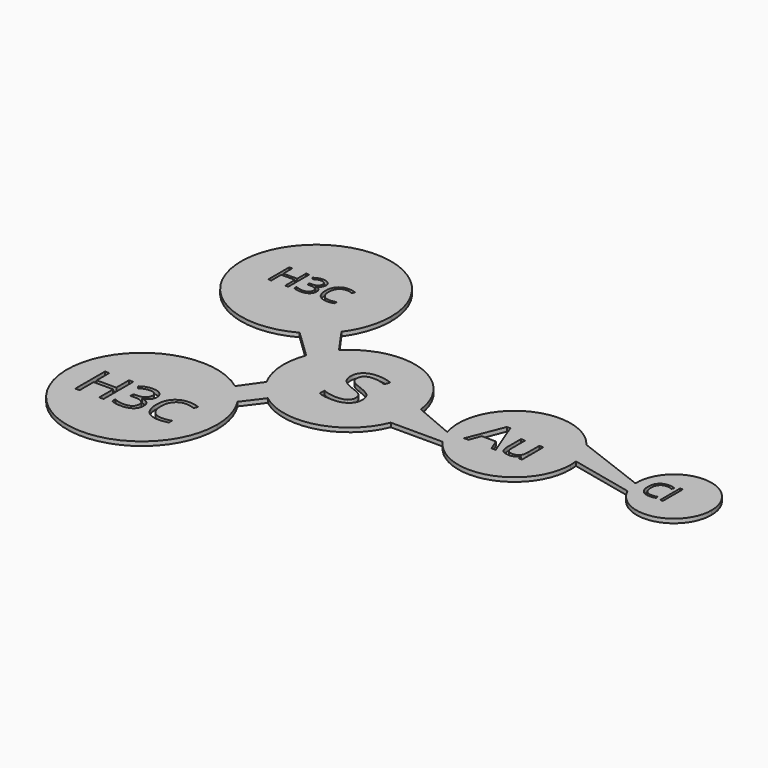
from build123d import *

# Parameters (mm, degrees)
F0_W     = 0.3598875931
F0_H     = 3.3721259448
F1_DEPTH = 0.5588


with BuildPart() as f1:
    # F0 (on Top) → F1 (new body)
    with BuildSketch(Plane.XY):
        with BuildLine():
            ThreePointArc((-51.4902720419, 39.2648222335), (-50.0459202529, 42.0980542652), (-49.5482157334, 45.239016864))
            ThreePointArc((-49.5482157334, 45.239016864), (-68.4527314703, 50.411931374), (-54.8157441839, 36.3345616793))
            ThreePointArc((-54.8157441839, 36.3345616793), (-52.9912704696, 37.6161403516), (-51.4902720419, 39.2648222335))
        make_face()
        Polygon((-62.332591911, 47.3509664274), (-62.332591911, 43.7928512692), (-62.7461089057, 43.7928512692), (-62.7461089057, 45.4671667847), (-64.6205635316, 45.4671667847), (-64.6205635316, 43.7928512692), (-65.0340805264, 43.7928512692), (-65.0340805264, 47.3509664274), (-64.6205635316, 47.3509664274), (-64.6205635316, 45.8370737009), (-62.7461089057, 45.8370737009), (-62.7461089057, 47.3509664274), align=None, mode=Mode.SUBTRACT)
        with BuildLine():
            add(Edge.make_bspline(
                [(-59.6848371424, 47.1644554665), (-59.3974778749, 46.9273256644), (-59.3974778749, 46.5138086697)],
                knots=[0, 0, 0, 1, 1, 1], degree=2))
            add(Edge.make_bspline(
                [(-59.3974778749, 46.5138086697), (-59.3974778749, 46.1727155554), (-59.5886613442, 45.9562226655)],
                knots=[0, 0, 0, 1, 1, 1], degree=2))
            add(Edge.make_bspline(
                [(-59.5886613442, 45.9562226655), (-59.7798448135, 45.7397297756), (-60.1302829447, 45.6665271437)],
                knots=[0, 0, 0, 1, 1, 1], degree=2))
            Line((-60.1302829447, 45.6665271437), (-60.1302829447, 45.6470583587))
            add(Edge.make_bspline(
                [(-60.1302829447, 45.6470583587), (-59.7019696733, 45.5941032633), (-59.4952111759, 45.3748847435)],
                knots=[0, 0, 0, 1, 1, 1], degree=2))
            add(Edge.make_bspline(
                [(-59.4952111759, 45.3748847435), (-59.2884526785, 45.1556662237), (-59.2884526785, 44.8005555841)],
                knots=[0, 0, 0, 1, 1, 1], degree=2))
            add(Edge.make_bspline(
                [(-59.2884526785, 44.8005555841), (-59.2884526785, 44.2920309183), (-59.6412270639, 44.0179104246)],
                knots=[0, 0, 0, 1, 1, 1], degree=2))
            add(Edge.make_bspline(
                [(-59.6412270639, 44.0179104246), (-59.9940014492, 43.7437899309), (-60.6434801189, 43.7437899309)],
                knots=[0, 0, 0, 1, 1, 1], degree=2))
            add(Edge.make_bspline(
                [(-60.6434801189, 43.7437899309), (-60.926166878, 43.7437899309), (-61.1609604259, 43.786621258)],
                knots=[0, 0, 0, 1, 1, 1], degree=2))
            add(Edge.make_bspline(
                [(-61.1609604259, 43.786621258), (-61.3957539738, 43.8294525852), (-61.6169193721, 43.9361415273)],
                knots=[0, 0, 0, 1, 1, 1], degree=2))
            Line((-61.6169193721, 43.9361415273), (-61.6169193721, 44.3208447202))
            add(Edge.make_bspline(
                [(-61.6169193721, 44.3208447202), (-61.3856302055, 44.206368264), (-61.1239697343, 44.1467937817)],
                knots=[0, 0, 0, 1, 1, 1], degree=2))
            add(Edge.make_bspline(
                [(-61.1239697343, 44.1467937817), (-60.862309263, 44.0872192994), (-60.6286838423, 44.0872192994)],
                knots=[0, 0, 0, 1, 1, 1], degree=2))
            add(Edge.make_bspline(
                [(-60.6286838423, 44.0872192994), (-59.7066421817, 44.0872192994), (-59.7066421817, 44.8099006009)],
                knots=[0, 0, 0, 1, 1, 1], degree=2))
            add(Edge.make_bspline(
                [(-59.7066421817, 44.8099006009), (-59.7066421817, 45.4578217678), (-60.7236915134, 45.4578217678)],
                knots=[0, 0, 0, 1, 1, 1], degree=2))
            Line((-60.7236915134, 45.4578217678), (-61.0741296445, 45.4578217678))
            Line((-61.0741296445, 45.4578217678), (-61.0741296445, 45.8051448934))
            Line((-61.0741296445, 45.8051448934), (-60.719019005, 45.8051448934))
            add(Edge.make_bspline(
                [(-60.719019005, 45.8051448934), (-60.303165756, 45.8051448934), (-60.0598059427, 45.9889302244)],
                knots=[0, 0, 0, 1, 1, 1], degree=2))
            add(Edge.make_bspline(
                [(-60.0598059427, 45.9889302244), (-59.8164461294, 46.1727155554), (-59.8164461294, 46.499012393)],
                knots=[0, 0, 0, 1, 1, 1], degree=2))
            add(Edge.make_bspline(
                [(-59.8164461294, 46.499012393), (-59.8164461294, 46.7591153615), (-59.9951695763, 46.9078568793)],
                knots=[0, 0, 0, 1, 1, 1], degree=2))
            add(Edge.make_bspline(
                [(-59.9951695763, 46.9078568793), (-60.1738930232, 47.0565983972), (-60.4807210758, 47.0565983972)],
                knots=[0, 0, 0, 1, 1, 1], degree=2))
            add(Edge.make_bspline(
                [(-60.4807210758, 47.0565983972), (-60.7143464966, 47.0565983972), (-60.9211049939, 46.9931301579)],
                knots=[0, 0, 0, 1, 1, 1], degree=2))
            add(Edge.make_bspline(
                [(-60.9211049939, 46.9931301579), (-61.1278634913, 46.9296619186), (-61.3934177196, 46.7591153615)],
                knots=[0, 0, 0, 1, 1, 1], degree=2))
            Line((-61.3934177196, 46.7591153615), (-61.597450587, 47.0316783523))
            add(Edge.make_bspline(
                [(-61.597450587, 47.0316783523), (-61.3786214429, 47.2045611637), (-61.0928196782, 47.3030732161)],
                knots=[0, 0, 0, 1, 1, 1], degree=2))
            add(Edge.make_bspline(
                [(-61.0928196782, 47.3030732161), (-60.8070179135, 47.4015852685), (-60.4900660926, 47.4015852685)],
                knots=[0, 0, 0, 1, 1, 1], degree=2))
            add(Edge.make_bspline(
                [(-60.4900660926, 47.4015852685), (-59.9721964099, 47.4015852685), (-59.6848371424, 47.1644554665)],
                knots=[0, 0, 0, 1, 1, 1], degree=2))
        make_face(mode=Mode.SUBTRACT)
        with BuildLine():
            add(Edge.make_bspline(
                [(-56.1757833226, 46.8424417615), (-56.5799553005, 47.0316783523), (-56.9841272785, 47.0316783523)],
                knots=[0, 0, 0, 1, 1, 1], degree=2))
            add(Edge.make_bspline(
                [(-56.9841272785, 47.0316783523), (-57.5705270846, 47.0316783523), (-57.9100626961, 46.641134524)],
                knots=[0, 0, 0, 1, 1, 1], degree=2))
            add(Edge.make_bspline(
                [(-57.9100626961, 46.641134524), (-58.2495983076, 46.2505906956), (-58.2495983076, 45.5715194726)],
                knots=[0, 0, 0, 1, 1, 1], degree=2))
            add(Edge.make_bspline(
                [(-58.2495983076, 45.5715194726), (-58.2495983076, 44.8737582159), (-57.9221333428, 44.4925594044)],
                knots=[0, 0, 0, 1, 1, 1], degree=2))
            add(Edge.make_bspline(
                [(-57.9221333428, 44.4925594044), (-57.594668378, 44.1113605929), (-56.9887997869, 44.1113605929)],
                knots=[0, 0, 0, 1, 1, 1], degree=2))
            add(Edge.make_bspline(
                [(-56.9887997869, 44.1113605929), (-56.6165566165, 44.1113605929), (-56.1391820067, 44.2453058341)],
                knots=[0, 0, 0, 1, 1, 1], degree=2))
            Line((-56.1391820067, 44.2453058341), (-56.1391820067, 43.8831864319))
            add(Edge.make_bspline(
                [(-56.1391820067, 43.8831864319), (-56.5090889229, 43.7437899309), (-57.0518786505, 43.7437899309)],
                knots=[0, 0, 0, 1, 1, 1], degree=2))
            add(Edge.make_bspline(
                [(-57.0518786505, 43.7437899309), (-57.8376388156, 43.7437899309), (-58.2647839599, 44.2211645406)],
                knots=[0, 0, 0, 1, 1, 1], degree=2))
            add(Edge.make_bspline(
                [(-58.2647839599, 44.2211645406), (-58.6919291042, 44.6985391504), (-58.6919291042, 45.5769707324)],
                knots=[0, 0, 0, 1, 1, 1], degree=2))
            add(Edge.make_bspline(
                [(-58.6919291042, 45.5769707324), (-58.6919291042, 46.1267692226), (-58.4863387339, 46.5402862174)],
                knots=[0, 0, 0, 1, 1, 1], degree=2))
            add(Edge.make_bspline(
                [(-58.4863387339, 46.5402862174), (-58.2807483637, 46.9538032121), (-57.8925407895, 47.1776942403)],
                knots=[0, 0, 0, 1, 1, 1], degree=2))
            add(Edge.make_bspline(
                [(-57.8925407895, 47.1776942403), (-57.5043332153, 47.4015852685), (-56.9786760186, 47.4015852685)],
                knots=[0, 0, 0, 1, 1, 1], degree=2))
            add(Edge.make_bspline(
                [(-56.9786760186, 47.4015852685), (-56.4195325116, 47.4015852685), (-56.0005642571, 47.1975524011)],
                knots=[0, 0, 0, 1, 1, 1], degree=2))
            Line((-56.0005642571, 47.1975524011), (-56.1757833226, 46.8424417615))
        make_face(mode=Mode.SUBTRACT)
        with BuildLine():
            ThreePointArc((-49.0565616192, 35.7943265999), (-50.1969142027, 34.3488179861), (-51.0157692152, 32.699765035))
            ThreePointArc((-51.0157692152, 32.699765035), (-51.5568674491, 28.9610345767), (-50.4999800202, 25.3342065271))
            ThreePointArc((-50.4999800202, 25.3342065271), (-49.4339676481, 23.7857016052), (-48.0667424935, 22.4953740317))
            ThreePointArc((-48.0667424935, 22.4953740317), (-40.3037341694, 20.9946022527), (-34.4045627249, 26.2592380844))
            ThreePointArc((-34.4045627249, 26.2592380844), (-33.923490882, 27.8904539288), (-33.7611616962, 29.5833639928))
            ThreePointArc((-33.7611616962, 29.5833639928), (-33.7763834268, 30.1039223603), (-33.8219966021, 30.6227018446))
            ThreePointArc((-33.8219966021, 30.6227018446), (-39.8061846324, 38.0192816667), (-49.0565616192, 35.7943265999))
        make_face()
        with BuildLine():
            add(Edge.make_bspline(
                [(-40.4271662895, 29.6509392841), (-40.008062618, 29.194581953), (-40.008062618, 28.4681355891)],
                knots=[0, 0, 0, 1, 1, 1], degree=2))
            add(Edge.make_bspline(
                [(-40.008062618, 28.4681355891), (-40.008062618, 27.5321373895), (-40.6871657894, 27.0074816823)],
                knots=[0, 0, 0, 1, 1, 1], degree=2))
            add(Edge.make_bspline(
                [(-40.6871657894, 27.0074816823), (-41.3662689607, 26.4828259751), (-42.5304458258, 26.4828259751)],
                knots=[0, 0, 0, 1, 1, 1], degree=2))
            add(Edge.make_bspline(
                [(-42.5304458258, 26.4828259751), (-43.7908613118, 26.4828259751), (-44.4707406011, 26.8087954973)],
                knots=[0, 0, 0, 1, 1, 1], degree=2))
            Line((-44.4707406011, 26.8087954973), (-44.4707406011, 27.6035402373))
            add(Edge.make_bspline(
                [(-44.4707406011, 27.6035402373), (-44.0330100998, 27.4203764105), (-43.5192200433, 27.3132721389)],
                knots=[0, 0, 0, 1, 1, 1], degree=2))
            add(Edge.make_bspline(
                [(-43.5192200433, 27.3132721389), (-43.0054299868, 27.2061678673), (-42.5009533452, 27.2061678673)],
                knots=[0, 0, 0, 1, 1, 1], degree=2))
            add(Edge.make_bspline(
                [(-42.5009533452, 27.2061678673), (-41.6767161247, 27.2061678673), (-41.2591646891, 27.5189433851)],
                knots=[0, 0, 0, 1, 1, 1], degree=2))
            add(Edge.make_bspline(
                [(-41.2591646891, 27.5189433851), (-40.8416132535, 27.8317189028), (-40.8416132535, 28.3905237981)],
                knots=[0, 0, 0, 1, 1, 1], degree=2))
            add(Edge.make_bspline(
                [(-40.8416132535, 28.3905237981), (-40.8416132535, 28.7584036875), (-40.9898517743, 28.9935674142)],
                knots=[0, 0, 0, 1, 1, 1], degree=2))
            add(Edge.make_bspline(
                [(-40.9898517743, 28.9935674142), (-41.1380902951, 29.228731141), (-41.4850150009, 29.4281934439)],
                knots=[0, 0, 0, 1, 1, 1], degree=2))
            add(Edge.make_bspline(
                [(-41.4850150009, 29.4281934439), (-41.8319397068, 29.6276557468), (-42.5397592408, 29.8791179497)],
                knots=[0, 0, 0, 1, 1, 1], degree=2))
            add(Edge.make_bspline(
                [(-42.5397592408, 29.8791179497), (-43.5285334582, 30.2330277167), (-43.953069955, 30.7181014105)],
                knots=[0, 0, 0, 1, 1, 1], degree=2))
            add(Edge.make_bspline(
                [(-43.953069955, 30.7181014105), (-44.3776064518, 31.2031751043), (-44.3776064518, 31.9839497218)],
                knots=[0, 0, 0, 1, 1, 1], degree=2))
            add(Edge.make_bspline(
                [(-44.3776064518, 31.9839497218), (-44.3776064518, 32.8035302349), (-43.7621449491, 33.2886039287)],
                knots=[0, 0, 0, 1, 1, 1], degree=2))
            add(Edge.make_bspline(
                [(-43.7621449491, 33.2886039287), (-43.1466834464, 33.7736776225), (-42.13152122, 33.7736776225)],
                knots=[0, 0, 0, 1, 1, 1], degree=2))
            add(Edge.make_bspline(
                [(-42.13152122, 33.7736776225), (-41.0744486265, 33.7736776225), (-40.1865697374, 33.3856186674)],
                knots=[0, 0, 0, 1, 1, 1], degree=2))
            Line((-40.1865697374, 33.3856186674), (-40.4442408835, 32.6684857185))
            add(Edge.make_bspline(
                [(-40.4442408835, 32.6684857185), (-41.3228063577, 33.0363656079), (-42.1517002857, 33.0363656079)],
                knots=[0, 0, 0, 1, 1, 1], degree=2))
            add(Edge.make_bspline(
                [(-42.1517002857, 33.0363656079), (-42.8067438018, 33.0363656079), (-43.1753998091, 32.7554109244)],
                knots=[0, 0, 0, 1, 1, 1], degree=2))
            add(Edge.make_bspline(
                [(-43.1753998091, 32.7554109244), (-43.5440558164, 32.474456241), (-43.5440558164, 31.9746363069)],
                knots=[0, 0, 0, 1, 1, 1], degree=2))
            add(Edge.make_bspline(
                [(-43.5440558164, 31.9746363069), (-43.5440558164, 31.6067564175), (-43.4082351821, 31.3708165728)],
                knots=[0, 0, 0, 1, 1, 1], degree=2))
            add(Edge.make_bspline(
                [(-43.4082351821, 31.3708165728), (-43.2724145479, 31.1348767282), (-42.9495494973, 30.9385188969)],
                knots=[0, 0, 0, 1, 1, 1], degree=2))
            add(Edge.make_bspline(
                [(-42.9495494973, 30.9385188969), (-42.6266844467, 30.7421610657), (-41.9623275156, 30.5046689852)],
                knots=[0, 0, 0, 1, 1, 1], degree=2))
            add(Edge.make_bspline(
                [(-41.9623275156, 30.5046689852), (-40.8462699609, 30.1072966152), (-40.4271662895, 29.6509392841)],
                knots=[0, 0, 0, 1, 1, 1], degree=2))
        make_face(mode=Mode.SUBTRACT)
        with BuildLine():
            ThreePointArc((-51.4902720419, 39.2648222335), (-52.9912704696, 37.6161403516), (-54.8157441839, 36.3345616793))
            Line((-54.8157441839, 36.3345616793), (-51.0157692152, 32.699765035))
            Line((-51.0157692152, 32.699765035), (-51.4902720419, 39.2648222335))
        make_face()
        with BuildLine():
            Line((-49.0565616192, 35.7943265999), (-51.4902720419, 39.2648222335))
            Line((-51.4902720419, 39.2648222335), (-51.0157692152, 32.699765035))
            ThreePointArc((-51.0157692152, 32.699765035), (-50.1969142027, 34.3488179861), (-49.0565616192, 35.7943265999))
        make_face()
        with BuildLine():
            ThreePointArc((-48.0667424935, 22.4953740317), (-49.4339676481, 23.7857016052), (-50.4999800202, 25.3342065271))
            Line((-50.4999800202, 25.3342065271), (-52.4992592342, 22.4953740317))
            Line((-52.4992592342, 22.4953740317), (-48.0667424935, 22.4953740317))
        make_face()
        with BuildLine():
            Line((-50.0543411124, 19.8566875829), (-48.0667424935, 22.4953740317))
            Line((-48.0667424935, 22.4953740317), (-52.4992592342, 22.4953740317))
            ThreePointArc((-52.4992592342, 22.4953740317), (-51.159088512, 21.2850984739), (-50.0543411124, 19.8566875829))
        make_face()
        with BuildLine():
            ThreePointArc((-50.0543411124, 19.8566875829), (-51.159088512, 21.2850984739), (-52.4992592342, 22.4953740317))
            ThreePointArc((-52.4992592342, 22.4953740317), (-67.7036962783, 9.8452629025), (-48.4517170751, 14.3797434866))
            ThreePointArc((-48.4517170751, 14.3797434866), (-48.8606007344, 17.2330451022), (-50.0543411124, 19.8566875829))
        make_face()
        Polygon((-61.52046848, 16.526337428), (-61.52046848, 11.4893322197), (-62.105859105, 11.4893322197), (-62.105859105, 13.8595579141), (-64.7594094522, 13.8595579141), (-64.7594094522, 11.4893322197), (-65.3448000772, 11.4893322197), (-65.3448000772, 16.526337428), (-64.7594094522, 16.526337428), (-64.7594094522, 14.383212428), (-62.105859105, 14.383212428), (-62.105859105, 16.526337428), align=None, mode=Mode.SUBTRACT)
        with BuildLine():
            add(Edge.make_bspline(
                [(-57.7722045911, 16.2623053099), (-57.3654077161, 15.9266152058), (-57.3654077161, 15.3412245808)],
                knots=[0, 0, 0, 1, 1, 1], degree=2))
            add(Edge.make_bspline(
                [(-57.3654077161, 15.3412245808), (-57.3654077161, 14.8583599974), (-57.6360544175, 14.551884303)],
                knots=[0, 0, 0, 1, 1, 1], degree=2))
            add(Edge.make_bspline(
                [(-57.6360544175, 14.551884303), (-57.9067011189, 14.2454086085), (-58.4027948689, 14.1417801363)],
                knots=[0, 0, 0, 1, 1, 1], degree=2))
            Line((-58.4027948689, 14.1417801363), (-58.4027948689, 14.1142193724))
            add(Edge.make_bspline(
                [(-58.4027948689, 14.1142193724), (-57.7964580633, 14.0392540947), (-57.5037627508, 13.7289198933)],
                knots=[0, 0, 0, 1, 1, 1], degree=2))
            add(Edge.make_bspline(
                [(-57.5037627508, 13.7289198933), (-57.2110674383, 13.4185856919), (-57.2110674383, 12.9158773585)],
                knots=[0, 0, 0, 1, 1, 1], degree=2))
            add(Edge.make_bspline(
                [(-57.2110674383, 12.9158773585), (-57.2110674383, 12.1959902058), (-57.71046848, 11.8079346502)],
                knots=[0, 0, 0, 1, 1, 1], degree=2))
            add(Edge.make_bspline(
                [(-57.71046848, 11.8079346502), (-58.2098695216, 11.4198790947), (-59.129296605, 11.4198790947)],
                knots=[0, 0, 0, 1, 1, 1], degree=2))
            add(Edge.make_bspline(
                [(-59.129296605, 11.4198790947), (-59.5294788966, 11.4198790947), (-59.8618617091, 11.4805127752)],
                knots=[0, 0, 0, 1, 1, 1], degree=2))
            add(Edge.make_bspline(
                [(-59.8618617091, 11.4805127752), (-60.1942445216, 11.5411464558), (-60.5073347994, 11.6921794419)],
                knots=[0, 0, 0, 1, 1, 1], degree=2))
            Line((-60.5073347994, 11.6921794419), (-60.5073347994, 12.2367801363))
            add(Edge.make_bspline(
                [(-60.5073347994, 12.2367801363), (-60.1799129244, 12.0747228447), (-59.8094962577, 11.9903869072)],
                knots=[0, 0, 0, 1, 1, 1], degree=2))
            add(Edge.make_bspline(
                [(-59.8094962577, 11.9903869072), (-59.4390795911, 11.9060509697), (-59.1083504244, 11.9060509697)],
                knots=[0, 0, 0, 1, 1, 1], degree=2))
            add(Edge.make_bspline(
                [(-59.1083504244, 11.9060509697), (-57.8030726466, 11.9060509697), (-57.8030726466, 12.9291065252)],
                knots=[0, 0, 0, 1, 1, 1], degree=2))
            add(Edge.make_bspline(
                [(-57.8030726466, 12.9291065252), (-57.8030726466, 13.8463287474), (-59.2428469522, 13.8463287474)],
                knots=[0, 0, 0, 1, 1, 1], degree=2))
            Line((-59.2428469522, 13.8463287474), (-59.7389407022, 13.8463287474))
            Line((-59.7389407022, 13.8463287474), (-59.7389407022, 14.3380127752))
            Line((-59.7389407022, 14.3380127752), (-59.2362323689, 14.3380127752))
            add(Edge.make_bspline(
                [(-59.2362323689, 14.3380127752), (-58.6475344522, 14.3380127752), (-58.3030249036, 14.5981863863)],
                knots=[0, 0, 0, 1, 1, 1], degree=2))
            add(Edge.make_bspline(
                [(-58.3030249036, 14.5981863863), (-57.958515355, 14.8583599974), (-57.958515355, 15.3202784002)],
                knots=[0, 0, 0, 1, 1, 1], degree=2))
            add(Edge.make_bspline(
                [(-57.958515355, 15.3202784002), (-57.958515355, 15.6884902058), (-58.2115231675, 15.8990544419)],
                knots=[0, 0, 0, 1, 1, 1], degree=2))
            add(Edge.make_bspline(
                [(-58.2115231675, 15.8990544419), (-58.46453098, 16.109618678), (-58.8988886189, 16.109618678)],
                knots=[0, 0, 0, 1, 1, 1], degree=2))
            add(Edge.make_bspline(
                [(-58.8988886189, 16.109618678), (-59.2296177855, 16.109618678), (-59.522313098, 16.0197705877)],
                knots=[0, 0, 0, 1, 1, 1], degree=2))
            add(Edge.make_bspline(
                [(-59.522313098, 16.0197705877), (-59.8150084105, 15.9299224974), (-60.19093723, 15.6884902058)],
                knots=[0, 0, 0, 1, 1, 1], degree=2))
            Line((-60.19093723, 15.6884902058), (-60.4797740355, 16.0743409002))
            add(Edge.make_bspline(
                [(-60.4797740355, 16.0743409002), (-60.1699910494, 16.3190804835), (-59.7653990355, 16.4585379488)],
                knots=[0, 0, 0, 1, 1, 1], degree=2))
            add(Edge.make_bspline(
                [(-59.7653990355, 16.4585379488), (-59.3608070216, 16.5979954141), (-58.9121177855, 16.5979954141)],
                knots=[0, 0, 0, 1, 1, 1], degree=2))
            add(Edge.make_bspline(
                [(-58.9121177855, 16.5979954141), (-58.1790014661, 16.5979954141), (-57.7722045911, 16.2623053099)],
                knots=[0, 0, 0, 1, 1, 1], degree=2))
        make_face(mode=Mode.SUBTRACT)
        with BuildLine():
            add(Edge.make_bspline(
                [(-52.8046525077, 15.8064502752), (-53.3768139661, 16.0743409002), (-53.9489754244, 16.0743409002)],
                knots=[0, 0, 0, 1, 1, 1], degree=2))
            add(Edge.make_bspline(
                [(-53.9489754244, 16.0743409002), (-54.7791056327, 16.0743409002), (-55.259765355, 15.5214719766)],
                knots=[0, 0, 0, 1, 1, 1], degree=2))
            add(Edge.make_bspline(
                [(-55.259765355, 15.5214719766), (-55.7404250772, 14.968603053), (-55.7404250772, 14.0072836085)],
                knots=[0, 0, 0, 1, 1, 1], degree=2))
            add(Edge.make_bspline(
                [(-55.7404250772, 14.0072836085), (-55.7404250772, 13.0195058308), (-55.2768530286, 12.4798660738)],
                knots=[0, 0, 0, 1, 1, 1], degree=2))
            add(Edge.make_bspline(
                [(-55.2768530286, 12.4798660738), (-54.81328098, 11.9402263169), (-53.9555900077, 11.9402263169)],
                knots=[0, 0, 0, 1, 1, 1], degree=2))
            add(Edge.make_bspline(
                [(-53.9555900077, 11.9402263169), (-53.4286282022, 11.9402263169), (-52.7528382716, 12.1298443724)],
                knots=[0, 0, 0, 1, 1, 1], degree=2))
            Line((-52.7528382716, 12.1298443724), (-52.7528382716, 11.6172141641))
            add(Edge.make_bspline(
                [(-52.7528382716, 11.6172141641), (-53.2764927855, 11.4198790947), (-54.0448868827, 11.4198790947)],
                knots=[0, 0, 0, 1, 1, 1], degree=2))
            add(Edge.make_bspline(
                [(-54.0448868827, 11.4198790947), (-55.1572393133, 11.4198790947), (-55.761922473, 12.0956690252)],
                knots=[0, 0, 0, 1, 1, 1], degree=2))
            add(Edge.make_bspline(
                [(-55.761922473, 12.0956690252), (-56.3666056327, 12.7714589558), (-56.3666056327, 14.0150006224)],
                knots=[0, 0, 0, 1, 1, 1], degree=2))
            add(Edge.make_bspline(
                [(-56.3666056327, 14.0150006224), (-56.3666056327, 14.7933165947), (-56.0755639661, 15.3787072197)],
                knots=[0, 0, 0, 1, 1, 1], degree=2))
            add(Edge.make_bspline(
                [(-56.0755639661, 15.3787072197), (-55.7845222994, 15.9640978447), (-55.2349606675, 16.2810466294)],
                knots=[0, 0, 0, 1, 1, 1], degree=2))
            add(Edge.make_bspline(
                [(-55.2349606675, 16.2810466294), (-54.6853990355, 16.5979954141), (-53.9412584105, 16.5979954141)],
                knots=[0, 0, 0, 1, 1, 1], degree=2))
            add(Edge.make_bspline(
                [(-53.9412584105, 16.5979954141), (-53.1497132716, 16.5979954141), (-52.5566056327, 16.3091586085)],
                knots=[0, 0, 0, 1, 1, 1], degree=2))
            Line((-52.5566056327, 16.3091586085), (-52.8046525077, 15.8064502752))
        make_face(mode=Mode.SUBTRACT)
        with BuildLine():
            ThreePointArc((-15.057424099, 35.2289086058), (-24.6251034684, 37.3662669785), (-28.37988009, 28.310305304))
            ThreePointArc((-28.37988009, 28.310305304), (-27.953926265, 27.2468336522), (-27.3733544697, 26.2592380844))
            ThreePointArc((-27.3733544697, 26.2592380844), (-18.837019998, 23.3316997523), (-13.493221645, 30.6037906526))
            ThreePointArc((-13.493221645, 30.6037906526), (-13.5086647024, 31.0886759028), (-13.5549312791, 31.5715957696))
            ThreePointArc((-13.5549312791, 31.5715957696), (-14.0648295082, 33.4994025544), (-15.057424099, 35.2289086058))
        make_face()
        Polygon((-21.8240248141, 28.310305304), (-22.4042942169, 28.310305304), (-23.0046092899, 29.8432715625), (-24.9363788834, 29.8432715625), (-25.5293087094, 28.310305304), (-26.0969176888, 28.310305304), (-24.1915239773, 33.1508071582), (-23.7199232082, 33.1508071582), align=None, mode=Mode.SUBTRACT)
        with BuildLine():
            Line((-21.2827917167, 31.9238011302), (-20.7288981959, 31.9238011302))
            Line((-20.7288981959, 31.9238011302), (-20.7288981959, 29.5795127431))
            add(Edge.make_bspline(
                [(-20.7288981959, 29.5795127431), (-20.7288981959, 29.1374529618), (-20.5279139755, 28.9201156945)],
                knots=[0, 0, 0, 1, 1, 1], degree=2))
            add(Edge.make_bspline(
                [(-20.5279139755, 28.9201156945), (-20.3269297551, 28.7027784273), (-19.8985854323, 28.7027784273)],
                knots=[0, 0, 0, 1, 1, 1], degree=2))
            add(Edge.make_bspline(
                [(-19.8985854323, 28.7027784273), (-19.3309764529, 28.7027784273), (-19.069327704, 29.0124312813)],
                knots=[0, 0, 0, 1, 1, 1], degree=2))
            add(Edge.make_bspline(
                [(-19.069327704, 29.0124312813), (-18.8076789552, 29.3220841354), (-18.8076789552, 30.0247376303)],
                knots=[0, 0, 0, 1, 1, 1], degree=2))
            Line((-18.8076789552, 30.0247376303), (-18.8076789552, 31.9238011302))
            Line((-18.8076789552, 31.9238011302), (-18.260115646, 31.9238011302))
            Line((-18.260115646, 31.9238011302), (-18.260115646, 28.310305304))
            Line((-18.260115646, 28.310305304), (-18.7116707449, 28.310305304))
            Line((-18.7116707449, 28.310305304), (-18.7907983907, 28.7945664965))
            Line((-18.7907983907, 28.7945664965), (-18.8203393785, 28.7945664965))
            add(Edge.make_bspline(
                [(-18.8203393785, 28.7945664965), (-18.9880899876, 28.5276425712), (-19.2866649712, 28.3857403264)],
                knots=[0, 0, 0, 1, 1, 1], degree=2))
            add(Edge.make_bspline(
                [(-19.2866649712, 28.3857403264), (-19.5852399548, 28.2438380815), (-19.9682177606, 28.2438380815)],
                knots=[0, 0, 0, 1, 1, 1], degree=2))
            add(Edge.make_bspline(
                [(-19.9682177606, 28.2438380815), (-20.6276148092, 28.2438380815), (-20.9552032629, 28.557183559)],
                knots=[0, 0, 0, 1, 1, 1], degree=2))
            add(Edge.make_bspline(
                [(-20.9552032629, 28.557183559), (-21.2827917167, 28.8705290365), (-21.2827917167, 29.5594670728)],
                knots=[0, 0, 0, 1, 1, 1], degree=2))
            Line((-21.2827917167, 29.5594670728), (-21.2827917167, 31.9238011302))
        make_face(mode=Mode.SUBTRACT)
        with BuildLine():
            Line((-28.37988009, 28.310305304), (-33.8219966021, 30.6227018446))
            ThreePointArc((-33.8219966021, 30.6227018446), (-33.7763834268, 30.1039223603), (-33.7611616962, 29.5833639928))
            ThreePointArc((-33.7611616962, 29.5833639928), (-33.923490882, 27.8904539288), (-34.4045627249, 26.2592380844))
            Line((-34.4045627249, 26.2592380844), (-28.37988009, 28.310305304))
        make_face()
        with BuildLine():
            ThreePointArc((-27.3733544697, 26.2592380844), (-27.953926265, 27.2468336522), (-28.37988009, 28.310305304))
            Line((-28.37988009, 28.310305304), (-34.4045627249, 26.2592380844))
            Line((-34.4045627249, 26.2592380844), (-27.3733544697, 26.2592380844))
        make_face()
        with BuildLine():
            Line((-5.4908106838, 31.5715957696), (-15.057424099, 35.2289086058))
            ThreePointArc((-15.057424099, 35.2289086058), (-14.0648295082, 33.4994025544), (-13.5549312791, 31.5715957696))
            Line((-13.5549312791, 31.5715957696), (-5.4908106838, 31.5715957696))
        make_face()
        with BuildLine():
            Line((-5.4908106838, 31.5715957696), (-13.5549312791, 31.5715957696))
            Line((-13.5549312791, 31.5715957696), (-5.0449534913, 29.6689827787))
            ThreePointArc((-5.0449534913, 29.6689827787), (-5.3602304938, 30.5986484038), (-5.4908106838, 31.5715957696))
        make_face()
        with BuildLine():
            ThreePointArc((4.6657794771, 31.7576934277), (-0.5072849701, 36.8368408964), (-5.4908106838, 31.5715957696))
            ThreePointArc((-5.4908106838, 31.5715957696), (-5.3602304938, 30.5986484038), (-5.0449534913, 29.6689827787))
            ThreePointArc((-5.0449534913, 29.6689827787), (0.6540202085, 26.7912800599), (4.6657794771, 31.7576934277))
        make_face()
        with BuildLine():
            add(Edge.make_bspline(
                [(-1.7317280892, 32.9465017211), (-2.0916156824, 33.1150040046), (-2.4515032755, 33.1150040046)],
                knots=[0, 0, 0, 1, 1, 1], degree=2))
            add(Edge.make_bspline(
                [(-2.4515032755, 33.1150040046), (-2.9736523268, 33.1150040046), (-3.275985642, 32.7672513496)],
                knots=[0, 0, 0, 1, 1, 1], degree=2))
            add(Edge.make_bspline(
                [(-3.275985642, 32.7672513496), (-3.5783189572, 32.4194986946), (-3.5783189572, 31.8148320641)],
                knots=[0, 0, 0, 1, 1, 1], degree=2))
            add(Edge.make_bspline(
                [(-3.5783189572, 31.8148320641), (-3.5783189572, 31.1935232328), (-3.28673373, 30.8540916782)],
                knots=[0, 0, 0, 1, 1, 1], degree=2))
            add(Edge.make_bspline(
                [(-3.28673373, 30.8540916782), (-2.9951485029, 30.5146601236), (-2.4556638257, 30.5146601236)],
                knots=[0, 0, 0, 1, 1, 1], degree=2))
            add(Edge.make_bspline(
                [(-2.4556638257, 30.5146601236), (-2.124206659, 30.5146601236), (-1.6991371126, 30.6339292296)],
                knots=[0, 0, 0, 1, 1, 1], degree=2))
            Line((-1.6991371126, 30.6339292296), (-1.6991371126, 30.3114865884))
            add(Edge.make_bspline(
                [(-1.6991371126, 30.3114865884), (-2.0285140042, 30.1873635071), (-2.5118312535, 30.1873635071)],
                knots=[0, 0, 0, 1, 1, 1], degree=2))
            add(Edge.make_bspline(
                [(-2.5118312535, 30.1873635071), (-3.2114971138, 30.1873635071), (-3.5918407454, 30.6124330535)],
                knots=[0, 0, 0, 1, 1, 1], degree=2))
            add(Edge.make_bspline(
                [(-3.5918407454, 30.6124330535), (-3.9721843771, 31.0375026), (-3.9721843771, 31.8196860393)],
                knots=[0, 0, 0, 1, 1, 1], degree=2))
            add(Edge.make_bspline(
                [(-3.9721843771, 31.8196860393), (-3.9721843771, 32.309244114), (-3.7891201678, 32.6774528075)],
                knots=[0, 0, 0, 1, 1, 1], degree=2))
            add(Edge.make_bspline(
                [(-3.7891201678, 32.6774528075), (-3.6060559586, 33.0456615011), (-3.2603835787, 33.2450211986)],
                knots=[0, 0, 0, 1, 1, 1], degree=2))
            add(Edge.make_bspline(
                [(-3.2603835787, 33.2450211986), (-2.9147111988, 33.4443808962), (-2.4466493002, 33.4443808962)],
                knots=[0, 0, 0, 1, 1, 1], degree=2))
            add(Edge.make_bspline(
                [(-2.4466493002, 33.4443808962), (-1.9487701252, 33.4443808962), (-1.5757074564, 33.262703537)],
                knots=[0, 0, 0, 1, 1, 1], degree=2))
            Line((-1.5757074564, 33.262703537), (-1.7317280892, 32.9465017211))
        make_face(mode=Mode.SUBTRACT)
        with Locations((-0.8819357089, 31.9171122568)):
            Rectangle(F0_W, F0_H, mode=Mode.SUBTRACT)
    extrude(amount=-F1_DEPTH)


solid = f1.part
